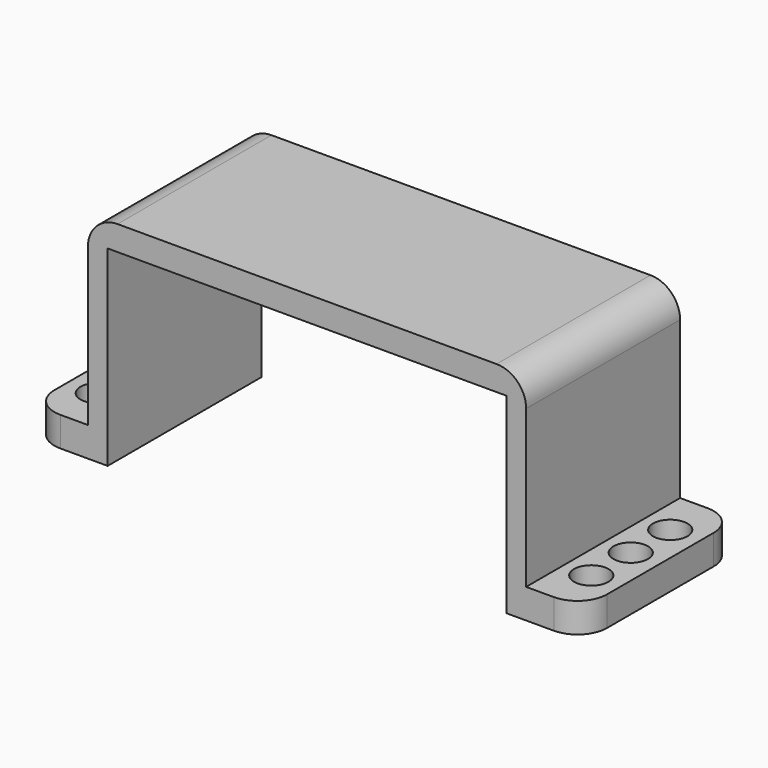
from build123d import *

# Parameters (mm, degrees)
F0_W     = 2
F0_H     = 19.5
F1_DEPTH = 21.9
F2_W     = 19.5
F2_H     = 2.5
F3_DEPTH = 40.4
F0_R     = 1.75
F4_DEPTH = 3
F5_R     = 3


with BuildPart() as f1:
    # F0 (on Top) → F1 (new body)
    with BuildSketch(Plane.XY):
        Polygon((-24.159199, 0), (-24.159199, 19.5), (-26.159199, 19.5), (-26.159199, 9.75), (-26.159199, 0), align=None)
        with Locations((17.240801, 9.75)):
            Rectangle(F0_W, F0_H)
    extrude(amount=F1_DEPTH)

    # F2 (on face) → F3 (join, through all)
    with BuildSketch(Plane(origin=(16.240801, 0, 0), x_dir=(0, -1, 0), z_dir=(-1, 0, 0))):
        with Locations((-9.75, 20.65)):
            Rectangle(F2_W, F2_H)
    extrude(amount=F3_DEPTH)

    # F0 (on Top) → F4 (join)
    with BuildSketch(Plane.XY):
        Polygon((-26.159199, 9.75), (-26.159199, 19.5), (-28.959199, 19.5), (-31.959199, 19.5), (-31.959199, 0), (-28.959199, 0), (-26.159199, 0), align=None)
        with Locations((-28.959199, 4.75)):
            Circle(F0_R, mode=Mode.SUBTRACT)
        with Locations((-28.959199, 9.75)):
            Circle(F0_R, mode=Mode.SUBTRACT)
        with Locations((-28.959199, 14.75)):
            Circle(F0_R, mode=Mode.SUBTRACT)
        Polygon((21.040801, 19.5), (18.240801, 19.5), (18.240801, 0), (21.040801, 0), (24.040801, 0), (24.040801, 19.5), align=None)
        with Locations((21.040801, 4.75)):
            Circle(F0_R, mode=Mode.SUBTRACT)
        with Locations((21.040801, 9.75)):
            Circle(F0_R, mode=Mode.SUBTRACT)
        with Locations((21.040801, 14.75)):
            Circle(F0_R, mode=Mode.SUBTRACT)
    extrude(amount=F4_DEPTH)

    # F5
    f5_edges = [f1.edges().sort_by_distance(p)[0] for p in [
        (18.240801, 9.75, 21.9),
        (-26.159199, 9.75, 21.9),
        (24.040801, 0, 1.5),
        (24.040801, 19.5, 1.5),
        (-31.959199, 19.5, 1.5),
        (-31.959199, 0, 1.5),
    ]]
    fillet(f5_edges, radius=F5_R)


solid = f1.part
